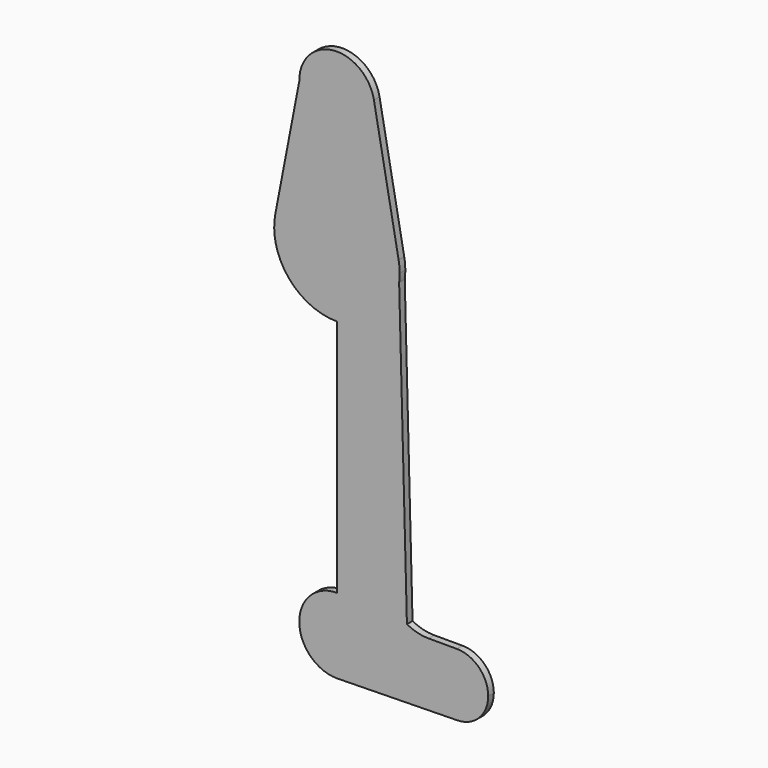
from build123d import *

# Parameters (mm, degrees)
F1_DEPTH = 1.778


with BuildPart() as f1:
    # F0 (on Front) → F1 (new body)
    with BuildSketch(Plane.XZ):
        with BuildLine():
            ThreePointArc((9.525, 120.5652729851), (6.7351920908, 113.8300808943), (0, 111.0402729851))
            Line((0, 111.0402729851), (0, 101.7107063052))
            ThreePointArc((0, 101.7107063052), (10.1473334951, 98.0441971186), (15.6073861738, 88.7383123449))
            Line((15.6073861738, 88.7383123449), (9.3644317043, 122.3068366089))
            ThreePointArc((9.3644317043, 122.3068366089), (9.4847729805, 121.4397479752), (9.525, 120.5652729851))
        make_face()
        with BuildLine():
            Line((0, 101.7107063052), (0, 111.0402729851))
            ThreePointArc((0, 111.0402729851), (-6.6795712353, 113.7749156224), (-9.5237114366, 120.4086030401))
            Line((-9.5237114366, 120.4086030401), (-15.5899438658, 88.8305811375))
            ThreePointArc((-15.5899438658, 88.8305811375), (-10.1111816085, 98.0741552054), (0, 101.7107063052))
        make_face()
        with BuildLine():
            ThreePointArc((-9.5237114366, 120.4086030401), (-6.6795712353, 113.7749156224), (0, 111.0402729851))
            ThreePointArc((0, 111.0402729851), (6.7351920908, 113.8300808943), (9.525, 120.5652729851))
            ThreePointArc((9.525, 120.5652729851), (9.4847729805, 121.4397479752), (9.3644317043, 122.3068366089))
            ThreePointArc((9.3644317043, 122.3068366089), (-0.9524521923, 130.0425331282), (-9.5237114366, 120.4086030401))
        make_face()
        with BuildLine():
            ThreePointArc((15.6073861738, 88.7383123449), (10.1473334951, 98.0441971186), (0, 101.7107063052))
            Line((0, 101.7107063052), (0, 69.9607063052))
            ThreePointArc((0, 69.9607063052), (10.4622988206, 73.8960275663), (15.7375101466, 83.7509043034))
            Line((15.7375101466, 83.7509043034), (15.6073861738, 88.7383123449))
        make_face()
        with BuildLine():
            Line((0, 69.9607063052), (0, 101.7107063052))
            ThreePointArc((0, 101.7107063052), (-10.1111816085, 98.0741552054), (-15.5899438658, 88.8305811375))
            Line((-15.5899438658, 88.8305811375), (-15.0407245456, 80.7571011678))
            ThreePointArc((-15.0407245456, 80.7571011678), (-9.2572341561, 72.9392245843), (0, 69.9607063052))
        make_face()
        with BuildLine():
            ThreePointArc((15.7375101466, 83.7509043034), (10.4622988206, 73.8960275663), (0, 69.9607063052))
            Line((0, 69.9607063052), (0, 9.525))
            ThreePointArc((0, 9.525), (6.7351920908, 6.7351920908), (9.525, 0))
            ThreePointArc((9.525, 0), (6.85728857, -6.6108409804), (0.3484711878, -9.5186234736))
            Line((0.3484711878, -9.5186234736), (30.4748983519, -8.9673527623))
            ThreePointArc((30.4748983519, -8.9673527623), (22.3925098626, -1.1037946724), (30.3296777171, 6.9063186835))
            Line((30.3296777171, 6.9063186835), (23.1837605431, 6.9063186835))
            ThreePointArc((23.1837605431, 6.9063186835), (20.3579696688, 7.2595932536), (17.7061227833, 8.2976708438))
            Line((17.7061227833, 8.2976708438), (15.7375101466, 83.7509043034))
        make_face()
        with BuildLine():
            ThreePointArc((15.875, 85.8357063052), (15.8079549675, 87.2931646221), (15.6073861738, 88.7383123449))
            Line((15.6073861738, 88.7383123449), (15.7375101466, 83.7509043034))
            ThreePointArc((15.7375101466, 83.7509043034), (15.8405902443, 84.7910409466), (15.875, 85.8357063052))
        make_face()
        with BuildLine():
            Line((-15.0407245456, 80.7571011678), (-15.5899438658, 88.8305811375))
            ThreePointArc((-15.5899438658, 88.8305811375), (-15.8383942222, 84.7582586445), (-15.0407245456, 80.7571011678))
        make_face()
        with BuildLine():
            ThreePointArc((9.525, 0), (6.7351920908, 6.7351920908), (0, 9.525))
            ThreePointArc((0, 9.525), (-9.525, 0), (0, -9.525))
            Line((0, -9.525), (0.3484711878, -9.5186234736))
            ThreePointArc((0.3484711878, -9.5186234736), (6.85728857, -6.6108409804), (9.525, 0))
        make_face()
        with BuildLine():
            Line((0.3484711878, -9.5186234736), (0, -9.525))
            ThreePointArc((0, -9.525), (0.1742647618, -9.523405735), (0.3484711878, -9.5186234736))
        make_face()
        with BuildLine():
            ThreePointArc((30.3296777171, 6.9063186835), (22.3925098626, -1.1037946724), (30.4748983519, -8.9673527623))
            ThreePointArc((30.4748983519, -8.9673527623), (35.9934483268, -6.5922611334), (38.2671777171, -1.0311813165))
            ThreePointArc((38.2671777171, -1.0311813165), (35.9423377927, 4.5814787592), (30.3296777171, 6.9063186835))
        make_face()
    extrude(amount=F1_DEPTH)


solid = f1.part
